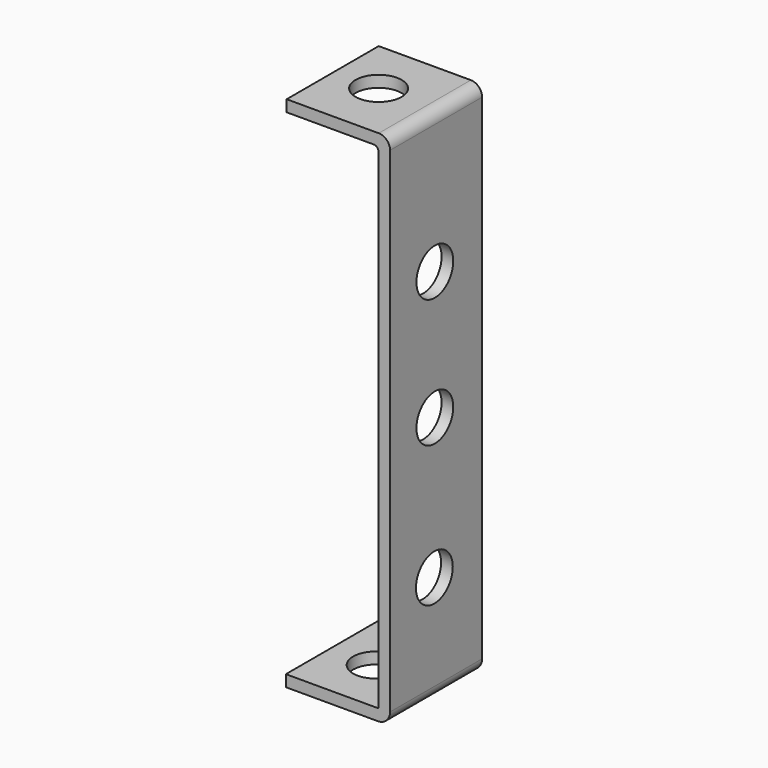
from build123d import *

# Parameters (mm, degrees)
CYLINDER030_R               = 2
CYLINDER030_DEPTH           = 10
CYLINDER030_PITCH_ANGLE     = 90
CYLINDER030_PLACEMENT_ANGLE = 7e-06
CYLINDER031_R               = 2
CYLINDER031_DEPTH           = 10
CYLINDER031_PITCH_ANGLE     = 90
CYLINDER031_PLACEMENT_ANGLE = 7e-06
CYLINDER026_R               = 2
CYLINDER026_DEPTH           = 2
CYLINDER026_ROLL_ANGLE      = -88.507054
CYLINDER026_PITCH_ANGLE     = -87.01751
CYLINDER026_PLACEMENT_ANGLE = -92.244015
CYLINDER028_R               = 2
CYLINDER028_DEPTH           = 2
CYLINDER028_PLACEMENT_ANGLE = 90.00001
CYLINDER029_R               = 2
CYLINDER029_DEPTH           = 2
CYLINDER029_ROLL_ANGLE      = 90
CYLINDER027_R               = 2
CYLINDER027_DEPTH           = 2
CYLINDER027_ROLL_ANGLE      = 90
CYLINDER025_R               = 2
CYLINDER025_DEPTH           = 2
CYLINDER025_ROLL_ANGLE      = -88.507054
CYLINDER025_PITCH_ANGLE     = -87.01751
CYLINDER025_PLACEMENT_ANGLE = -92.244015
PAD006_DEPTH                = 10
CUT031_PITCH_ANGLE          = 90
CUT031_PLACEMENT_ANGLE      = 90


with BuildPart() as cylinder030:
    # Cylinder030 → Cylinder030 (new body)
    with BuildSketch(Plane.XY):
        Circle(CYLINDER030_R)
    extrude(amount=CYLINDER030_DEPTH)


with BuildPart() as cylinder030_1:
    # Cylinder030 pitch: moved
    add(cylinder030.part.rotate(Axis((0, 0, 0), (0, 1, 0)), CYLINDER030_PITCH_ANGLE))


with BuildPart() as cylinder030_2:
    # Cylinder030 placement: moved
    add(cylinder030_1.part.moved(Location((15.49, 3.9, 4.87))).rotate(Axis((15.49, 3.9, 4.87), (0, 0, 1)), CYLINDER030_PLACEMENT_ANGLE))


with BuildPart() as cylinder031:
    # Cylinder031 → Cylinder031 (new body)
    with BuildSketch(Plane.XY):
        Circle(CYLINDER031_R)
    extrude(amount=CYLINDER031_DEPTH)


with BuildPart() as cylinder031_1:
    # Cylinder031 pitch: moved
    add(cylinder031.part.rotate(Axis((0, 0, 0), (0, 1, 0)), CYLINDER031_PITCH_ANGLE))


with BuildPart() as cylinder031_2:
    # Cylinder031 placement: moved
    add(cylinder031_1.part.moved(Location((-28.4147, 3.9, 5.14))).rotate(Axis((-28.4147, 3.9, 5.14), (0, 0, 1)), CYLINDER031_PLACEMENT_ANGLE))


with BuildPart() as cylinder026:
    # Cylinder026 → Cylinder026 (new body)
    with BuildSketch(Plane.XY):
        Circle(CYLINDER026_R)
    extrude(amount=CYLINDER026_DEPTH)


with BuildPart() as cylinder026_1:
    # Cylinder026 roll: moved
    add(cylinder026.part.rotate(Axis((0, 0, 0), (1, 0, 0)), CYLINDER026_ROLL_ANGLE))


with BuildPart() as cylinder026_2:
    # Cylinder026 pitch: moved
    add(cylinder026_1.part.rotate(Axis((0, 0, 0), (0, 1, 0)), CYLINDER026_PITCH_ANGLE))


with BuildPart() as cylinder026_3:
    # Cylinder026 placement: moved
    add(cylinder026_2.part.moved(Location((-26, 5.29, 4.9))).rotate(Axis((-26, 5.29, 4.9), (0, 0, 1)), CYLINDER026_PLACEMENT_ANGLE))


with BuildPart() as cylinder028:
    # Cylinder028 → Cylinder028 (new body)
    with BuildSketch(Plane.XY):
        Circle(CYLINDER028_R)
    extrude(amount=CYLINDER028_DEPTH)


with BuildPart() as cylinder028_1:
    # Cylinder028 placement: moved
    add(cylinder028.part.moved(Location((-11.1555, 0, 4.86401))).rotate(Axis((-11.1555, 0, 4.86401), (1, 0, 0)), CYLINDER028_PLACEMENT_ANGLE))


with BuildPart() as cylinder029:
    # Cylinder029 → Cylinder029 (new body)
    with BuildSketch(Plane.XY):
        Circle(CYLINDER029_R)
    extrude(amount=CYLINDER029_DEPTH)


with BuildPart() as cylinder029_1:
    # Cylinder029 roll: moved
    add(cylinder029.part.rotate(Axis((0, 0, 0), (1, 0, 0)), CYLINDER029_ROLL_ANGLE))


with BuildPart() as cylinder029_2:
    # Cylinder029 placement: moved
    add(cylinder029_1.part.moved(Location((0, 0, 4.86401))))


with BuildPart() as cylinder027:
    # Cylinder027 → Cylinder027 (new body)
    with BuildSketch(Plane.XY):
        Circle(CYLINDER027_R)
    extrude(amount=CYLINDER027_DEPTH)


with BuildPart() as cylinder027_1:
    # Cylinder027 roll: moved
    add(cylinder027.part.rotate(Axis((0, 0, 0), (1, 0, 0)), CYLINDER027_ROLL_ANGLE))


with BuildPart() as cylinder027_2:
    # Cylinder027 placement: moved
    add(cylinder027_1.part.moved(Location((12.2129, 0, 4.81114))))


with BuildPart() as cylinder025:
    # Cylinder025 → Cylinder025 (new body)
    with BuildSketch(Plane.XY):
        Circle(CYLINDER025_R)
    extrude(amount=CYLINDER025_DEPTH)


with BuildPart() as cylinder025_1:
    # Cylinder025 roll: moved
    add(cylinder025.part.rotate(Axis((0, 0, 0), (1, 0, 0)), CYLINDER025_ROLL_ANGLE))


with BuildPart() as cylinder025_2:
    # Cylinder025 pitch: moved
    add(cylinder025_1.part.rotate(Axis((0, 0, 0), (0, 1, 0)), CYLINDER025_PITCH_ANGLE))


with BuildPart() as cylinder025_3:
    # Cylinder025 placement: moved
    add(cylinder025_2.part.moved(Location((25, 5.38, 4.9))).rotate(Axis((25, 5.38, 4.9), (0, 0, 1)), CYLINDER025_PLACEMENT_ANGLE))


with BuildPart() as cut031:
    # Sketch007 → Pad006 (new body)
    with BuildSketch(Plane.XY):
        with BuildLine():
            Line((20.546084, -1.208272), (-22.415471, -1.208272))
            ThreePointArc((-23.400725, -0.223018), (-23.112151, -0.919698), (-22.415471, -1.208272))
            Line((-23.400725, 7.776982), (-23.400725, -0.223018))
            Line((-23.400725, 7.776982), (-22.400725, 7.776982))
            Line((-22.400725, 7.776982), (-22.400725, 0.197829))
            ThreePointArc((-22.400725, 0.197829), (-22.286166, -0.07874), (-22.009596, -0.193299))
            Line((-22.009596, -0.193299), (20.555186, -0.193299))
            ThreePointArc((20.555186, -0.193299), (20.586324, -0.180401), (20.599222, -0.149263))
            Line((20.599222, 7.844865), (20.599222, -0.149263))
            Line((21.599222, 7.844865), (20.599222, 7.844865))
            Line((21.599222, 7.844865), (21.599222, -0.155135))
            ThreePointArc((20.546084, -1.208272), (21.290765, -0.899815), (21.599222, -0.155135))
        make_face()
    extrude(amount=PAD006_DEPTH)

    # Cut005: cut Cylinder025
    add(cylinder025_3.part, mode=Mode.SUBTRACT)

    # Cut006: cut Cylinder027
    add(cylinder027_2.part, mode=Mode.SUBTRACT)

    # Cut007: cut Cylinder029
    add(cylinder029_2.part, mode=Mode.SUBTRACT)

    # Cut008: cut Cylinder028
    add(cylinder028_1.part, mode=Mode.SUBTRACT)

    # Cut009: cut Cylinder026
    add(cylinder026_3.part, mode=Mode.SUBTRACT)

    # Cut018: cut Cylinder031
    add(cylinder031_2.part, mode=Mode.SUBTRACT)

    # Cut031: cut Cylinder030
    add(cylinder030_2.part, mode=Mode.SUBTRACT)


with BuildPart() as cut031_1:
    # Cut031 pitch: moved
    add(cut031.part.rotate(Axis((0, 0, 0), (0, 1, 0)), CUT031_PITCH_ANGLE))


with BuildPart() as cut031_2:
    # Cut031 placement: moved
    add(cut031_1.part.moved(Location((-6.2, -55.7, 76))).rotate(Axis((-6.2, -55.7, 76), (0, 0, 1)), CUT031_PLACEMENT_ANGLE))


solid = cut031_2.part
